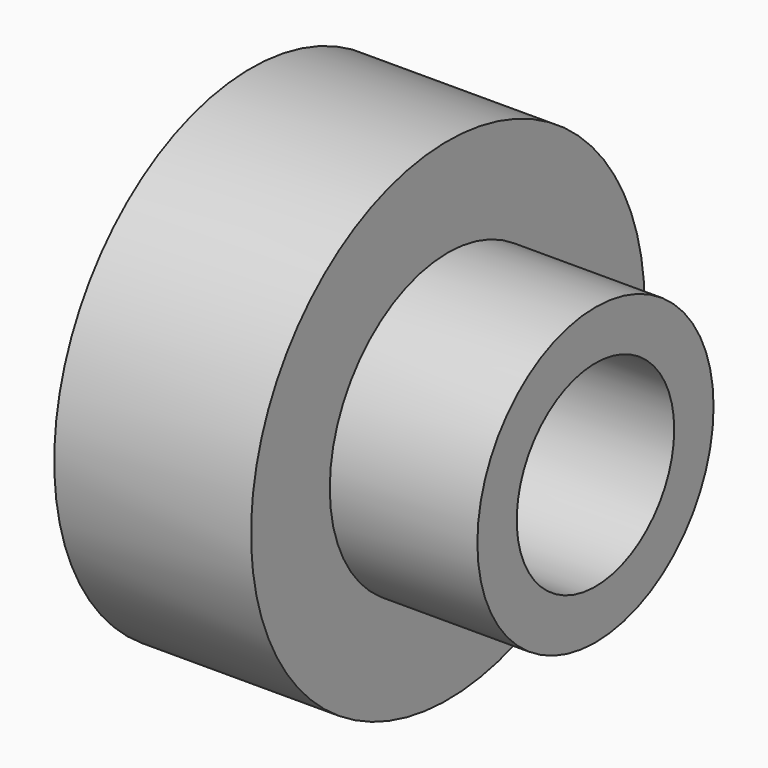
from build123d import *

# Parameters (mm, degrees)
F0_R     = 31.75
F1_DEPTH = 25.4
F2_R     = 19.05
F3_DEPTH = 19.05
F4_R     = 12.7
F5_DEPTH = 44.451


with BuildPart() as f1:
    # F0 (on Right) → F1 (new body)
    with BuildSketch(Plane.YZ):
        with Locations((-16.164811, 25.700888)):
            Circle(F0_R)
    extrude(amount=F1_DEPTH)

    # F2 (on face) → F3 (join)
    with BuildSketch(Plane.YZ.offset(25.4)):
        with Locations((-16.164811, 25.700888)):
            Circle(F2_R)
    extrude(amount=F3_DEPTH)

    # F4 (on face) → F5 (cut, through all)
    with BuildSketch(Plane.YZ.offset(44.45)):
        with Locations((-16.164811, 25.700888)):
            Circle(F4_R)
    extrude(amount=-F5_DEPTH, mode=Mode.SUBTRACT)


solid = f1.part
